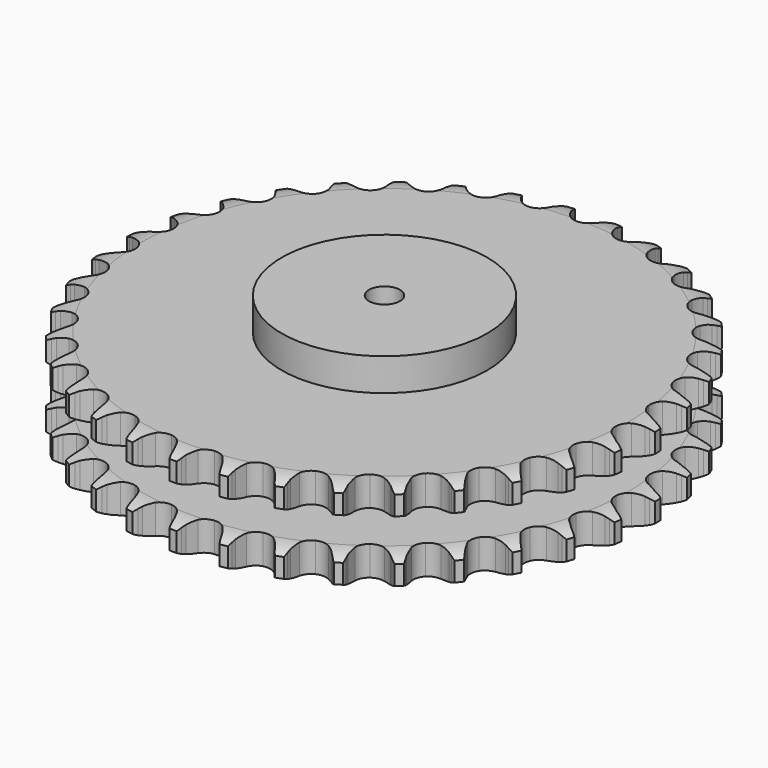
from build123d import *

# Parameters (mm, degrees)
PAD_DEPTH         = 88.4
SKETCH001_R       = 100
PAD001_DEPTH      = 120
SKETCH002_R       = 15
POCKET_DEPTH      = 0.001
POCKET_DEPTH_BACK = 120.001


with BuildPart() as part:
    # Sprocket → Pad (new body)
    with BuildSketch(Plane.XY):
        with BuildLine():
            ThreePointArc((-23.503679, 261.147267), (-20.036294, 257.089149), (-17.609149, 252.335198))
            Line((-17.609149, 252.335198), (-16.246137, 248.653319))
            ThreePointArc((-16.246137, 248.653319), (-14.09297, 243.909834), (-11.285259, 239.52195))
            ThreePointArc((-11.285259, 239.52195), (-6.312944, 235.354961), (0, 233.860151))
            ThreePointArc((0, 233.860151), (6.312944, 235.354961), (11.285259, 239.52195))
            ThreePointArc((11.285259, 239.52195), (14.09297, 243.909834), (16.246137, 248.653319))
            Line((16.246137, 248.653319), (17.609149, 252.335198))
            ThreePointArc((17.609149, 252.335198), (20.036294, 257.089149), (23.503679, 261.147267))
            ThreePointArc((23.503679, 261.147267), (26.190738, 256.535239), (27.730027, 251.424302))
            Line((27.730027, 251.424302), (28.41371, 247.558217))
            ThreePointArc((28.41371, 247.558217), (29.685292, 242.5065), (31.664395, 237.687794))
            ThreePointArc((31.664395, 237.687794), (35.812759, 232.699929), (41.757342, 230.101922))
            ThreePointArc((41.757342, 230.101922), (48.235743, 230.44549), (53.872196, 233.657673))
            Line((53.872196, 233.657673), (60.383819, 241.756498))
            ThreePointArc((60.383819, 241.756498), (61.337528, 243.473108), (62.382352, 245.135832))
            ThreePointArc((62.382352, 245.135832), (65.619343, 249.380002), (69.755611, 252.753779))
            ThreePointArc((69.755611, 252.753779), (71.575977, 247.736075), (72.177937, 242.432423))
            Line((72.177937, 242.432423), (72.160317, 238.506391))
            ThreePointArc((72.160317, 238.506391), (72.509445, 233.308807), (73.59633, 228.214158))
            ThreePointArc((73.59633, 228.214158), (76.78741, 222.565731), (82.172569, 218.948028))
            ThreePointArc((82.172569, 218.948028), (88.608206, 218.129312), (94.727636, 220.283446))
            Line((94.727636, 220.283446), (102.580716, 227.089424))
            ThreePointArc((102.580716, 227.089424), (103.825611, 228.608156), (105.150535, 230.0576))
            ThreePointArc((105.150535, 230.0576), (109.093332, 233.655577), (113.765539, 236.236577))
            ThreePointArc((113.765539, 236.236577), (114.660706, 230.97447), (114.305988, 225.648566))
            Line((114.305988, 225.648566), (113.587631, 221.788773))
            ThreePointArc((113.587631, 221.788773), (113.003084, 216.612377), (113.162818, 211.40553))
            ThreePointArc((113.162818, 211.40553), (115.29405, 205.278086), (119.946702, 200.756964))
            ThreePointArc((119.946702, 200.756964), (126.132728, 198.802278), (132.538452, 199.829127))
            Line((132.538452, 199.829127), (141.480584, 205.12351))
            ThreePointArc((141.480584, 205.12351), (142.976653, 206.39555), (144.539093, 207.585126))
            ThreePointArc((144.539093, 207.585126), (149.060971, 210.421269), (154.11895, 212.126536))
            ThreePointArc((154.11895, 212.126536), (154.060146, 206.789156), (152.760151, 201.612178))
            Line((152.760151, 201.612178), (151.364146, 197.942682))
            ThreePointArc((151.364146, 197.942682), (149.864712, 192.953847), (149.09216, 187.802155))
            ThreePointArc((149.09216, 187.802155), (150.095045, 181.392636), (153.86565, 176.113407))
            ThreePointArc((153.86565, 176.113407), (159.603241, 173.085575), (166.089373, 172.952137))
            Line((166.089373, 172.952137), (175.83315, 176.564757))
            ThreePointArc((175.83315, 176.564757), (177.532308, 177.549222), (179.282046, 178.440696))
            ThreePointArc((179.282046, 178.440696), (184.237668, 180.423848), (189.518851, 181.198574))
            ThreePointArc((189.518851, 181.198574), (188.507965, 175.957468), (186.304477, 171.095809))
            Line((186.304477, 171.095809), (184.275692, 167.73455))
            ThreePointArc((184.275692, 167.73455), (181.909564, 163.093622), (180.229557, 158.162664))
            ThreePointArc((180.229557, 158.162664), (180.071862, 151.677076), (182.839228, 145.809419))
            ThreePointArc((182.839228, 145.809419), (187.943974, 141.805759), (194.302045, 140.516322))
            Line((194.302045, 140.516322), (204.534293, 142.331067))
            ThreePointArc((204.534293, 142.331067), (206.381929, 142.996315), (208.262726, 143.561036))
            ThreePointArc((208.262726, 143.561036), (213.492815, 144.627457), (218.827459, 144.446741))
            ThreePointArc((218.827459, 144.446741), (216.896984, 139.470362), (213.860824, 135.08028))
            Line((213.860824, 135.08028), (211.264467, 132.135291))
            ThreePointArc((211.264467, 132.135291), (208.107693, 127.991434), (205.574228, 123.439695))
            ThreePointArc((205.574228, 123.439695), (204.26102, 117.086491), (205.936204, 110.818997))
            ThreePointArc((205.936204, 110.818997), (210.244033, 105.96819), (216.269689, 103.564197))
            Line((216.269689, 103.564197), (226.661537, 103.52274))
            ThreePointArc((226.661537, 103.52274), (228.598264, 103.847389), (230.549671, 104.067205))
            ThreePointArc((230.549671, 104.067205), (235.886128, 104.18262), (241.102774, 103.052271))
            ThreePointArc((241.102774, 103.052271), (238.314755, 98.500564), (234.543508, 94.72316))
            Line((234.543508, 94.72316), (231.463027, 92.289095))
            ThreePointArc((231.463027, 92.289095), (227.61707, 88.775495), (224.311574, 84.749272))
            ThreePointArc((224.311574, 84.749272), (221.885062, 78.732649), (222.41422, 72.266761))
            ThreePointArc((222.41422, 72.266761), (225.786676, 66.724716), (231.286248, 63.283434))
            Line((231.286248, 63.283434), (241.503692, 61.387107))
            ThreePointArc((241.503692, 61.387107), (243.467263, 61.360723), (245.42656, 61.228569))
            ThreePointArc((245.42656, 61.228569), (250.697866, 60.389268), (255.628846, 58.345616))
            ThreePointArc((255.628846, 58.345616), (252.072894, 54.364877), (247.687771, 51.321559))
            Line((247.687771, 51.321559), (244.222175, 49.476652))
            ThreePointArc((244.222175, 49.476652), (239.810647, 46.706239), (235.839362, 43.334939))
            ThreePointArc((235.839362, 43.334939), (232.377535, 37.848275), (231.743661, 31.391812))
            ThreePointArc((231.743661, 31.391812), (234.072349, 25.336655), (238.869076, 20.968688))
            Line((238.869076, 20.968688), (248.583719, 17.278442))
            ThreePointArc((248.583719, 17.278442), (250.511024, 16.901872), (252.415238, 16.421996))
            ThreePointArc((252.415238, 16.421996), (257.451968, 14.654955), (261.938798, 11.763685))
            ThreePointArc((261.938798, 11.763685), (257.729202, 8.481858), (252.871144, 6.270442))
            Line((252.871144, 6.270442), (249.131822, 5.073989))
            ThreePointArc((249.131822, 5.073989), (244.296512, 3.135806), (239.787078, 0.527784))
            ThreePointArc((239.787078, 0.527784), (235.401203, -4.252573), (233.624669, -10.492096))
            ThreePointArc((233.624669, -10.492096), (234.834745, -16.865748), (238.774456, -22.020007))
            Line((238.774456, -22.020007), (247.674061, -27.385567))
            ThreePointArc((247.674061, -27.385567), (249.503155, -28.100219), (251.291081, -28.912393))
            ThreePointArc((251.291081, -28.912393), (255.931352, -31.55038), (259.829821, -35.196341))
            ThreePointArc((259.829821, -35.196341), (255.101882, -37.673775), (249.927032, -38.982213))
            Line((249.927032, -38.982213), (246.034167, -39.491757))
            ThreePointArc((246.034167, -39.491757), (240.930486, -40.535414), (236.027841, -42.296334))
            ThreePointArc((236.027841, -42.296334), (230.858883, -46.21674), (227.996788, -52.038779))
            ThreePointArc((227.996788, -52.038779), (228.049358, -58.526071), (231.005428, -64.300962))
            Line((231.005428, -64.300962), (238.803956, -71.169381))
            ThreePointArc((238.803956, -71.169381), (240.476049, -72.199145), (242.090223, -73.317514))
            ThreePointArc((242.090223, -73.317514), (246.184892, -76.74166), (249.369699, -81.025127))
            ThreePointArc((249.369699, -81.025127), (244.275377, -82.618542), (238.950058, -82.981948))
            Line((238.950058, -82.981948), (235.028771, -82.788205))
            ThreePointArc((235.028771, -82.788205), (229.820757, -82.903793), (224.682474, -83.761012))
            ThreePointArc((224.682474, -83.761012), (218.896568, -86.695464), (215.040903, -91.912893))
            ThreePointArc((215.040903, -91.912893), (213.934278, -98.305318), (215.811696, -104.515231))
            Line((215.811696, -104.515231), (222.258494, -112.665752))
            ThreePointArc((222.258494, -112.665752), (223.719844, -113.977532), (225.108386, -115.36615))
            ThreePointArc((225.108386, -115.36615), (228.525847, -119.4664), (230.89463, -124.249699))
            ThreePointArc((230.89463, -124.249699), (225.597661, -124.907881), (220.293034, -124.314574))
            Line((220.293034, -124.314574), (216.469357, -123.423772))
            ThreePointArc((216.469357, -123.423772), (211.324399, -122.607575), (206.115628, -122.533543))
            ThreePointArc((206.115628, -122.533543), (199.898737, -124.387723), (195.173427, -128.832851))
            ThreePointArc((195.173427, -128.832851), (192.943173, -134.924952), (193.681598, -141.370295))
            Line((193.681598, -141.370295), (198.569462, -150.540954))
            ThreePointArc((198.569462, -150.540954), (199.7731, -152.092587), (200.89138, -153.706823))
            ThreePointArc((200.89138, -153.706823), (203.521793, -158.351391), (204.998418, -163.480783))
            ThreePointArc((204.998418, -163.480783), (199.669051, -163.182578), (194.55561, -161.651628))
            Line((194.55561, -161.651628), (190.95244, -160.092397))
            ThreePointArc((190.95244, -160.092397), (186.035901, -158.37065), (180.924056, -157.367746))
            ThreePointArc((180.924056, -157.367746), (174.475997, -158.082059), (169.032916, -161.612015))
            ThreePointArc((169.032916, -161.612015), (165.750717, -167.207986), (165.326414, -173.681601))
            Line((165.326414, -173.681601), (168.498244, -183.577645))
            ThreePointArc((168.498244, -183.577645), (169.405484, -185.319261), (170.21756, -187.107232))
            ThreePointArc((170.21756, -187.107232), (171.976382, -192.146839), (172.513388, -197.457461))
            ThreePointArc((172.513388, -197.457461), (167.322913, -196.212452), (162.565008, -193.793065))
            Line((162.565008, -193.793065), (159.298154, -191.615521))
            ThreePointArc((159.298154, -191.615521), (154.768056, -189.043561), (149.917436, -187.144019))
            ThreePointArc((149.917436, -187.144019), (143.445454, -186.695507), (137.459548, -189.196836))
            ThreePointArc((137.459548, -189.196836), (133.230896, -194.116818), (131.657503, -200.410637))
            Line((131.657503, -200.410637), (133.011353, -210.714))
            ThreePointArc((133.011353, -210.714), (133.593037, -212.589621), (134.072807, -214.493861))
            ThreePointArc((134.072807, -214.493861), (134.903508, -219.766529), (134.483636, -225.087693))
            ThreePointArc((134.483636, -225.087693), (129.598878, -222.935897), (125.349434, -219.705834))
            Line((125.349434, -219.705834), (122.523895, -216.979965))
            ThreePointArc((122.523895, -216.979965), (118.525838, -213.640457), (114.092347, -210.905329))
            ThreePointArc((114.092347, -210.905329), (107.804456, -209.308409), (101.468117, -210.700715))
            ThreePointArc((101.468117, -210.700715), (96.428924, -214.786576), (93.757012, -220.69831))
            Line((93.757012, -220.69831), (93.249368, -231.077834))
            ThreePointArc((93.249368, -231.077834), (93.486799, -233.027176), (93.618844, -234.986481))
            ThreePointArc((93.618844, -234.986481), (93.494724, -240.322742), (92.131469, -245.483422))
            ThreePointArc((92.131469, -245.483422), (87.70943, -242.493999), (84.105025, -238.557077))
            Line((84.105025, -238.557077), (81.811617, -235.370494))
            ThreePointArc((81.811617, -235.370494), (78.474103, -231.370772), (74.600235, -227.887969))
            ThreePointArc((74.600235, -227.887969), (68.698535, -225.193965), (62.215417, -225.4325))
            ThreePointArc((62.215417, -225.4325), (56.527648, -228.552917), (52.843093, -233.892559))
            Line((52.843093, -233.892559), (50.490272, -244.014636))
            ThreePointArc((50.490272, -244.014636), (50.375819, -245.975046), (50.155895, -247.926441))
            ThreePointArc((50.155895, -247.926441), (49.080943, -253.154784), (46.818121, -257.989111))
            ThreePointArc((46.818121, -257.989111), (43.000927, -254.258144), (40.157412, -249.740898))
            Line((40.157412, -249.740898), (38.469846, -246.196021))
            ThreePointArc((38.469846, -246.196021), (35.900145, -241.664641), (32.71041, -237.546102))
            ThreePointArc((32.71041, -237.546102), (27.384586, -233.841603), (20.963062, -232.918699))
            ThreePointArc((20.963062, -232.918699), (14.809526, -234.973379), (10.230754, -239.569308))
            Line((10.230754, -239.569308), (6.108377, -249.108606))
            ThreePointArc((6.108377, -249.108606), (5.645718, -251.017076), (5.080893, -252.897842))
            ThreePointArc((5.080893, -252.897842), (3.08966, -257.850223), (0, -262.202819))
            ThreePointArc((0, -262.202819), (-3.08966, -257.850223), (-5.080893, -252.897842))
            Line((-5.080893, -252.897842), (-6.108377, -249.108606))
            ThreePointArc((-6.108377, -249.108606), (-7.827673, -244.191209), (-10.230754, -239.569308))
            ThreePointArc((-10.230754, -239.569308), (-14.809526, -234.973379), (-20.963062, -232.918699))
            ThreePointArc((-20.963062, -232.918699), (-27.384586, -233.841603), (-32.71041, -237.546102))
            Line((-32.71041, -237.546102), (-38.469846, -246.196021))
            ThreePointArc((-38.469846, -246.196021), (-39.26584, -247.99121), (-40.157412, -249.740898))
            ThreePointArc((-40.157412, -249.740898), (-43.000927, -254.258144), (-46.818121, -257.989111))
            ThreePointArc((-46.818121, -257.989111), (-49.080943, -253.154784), (-50.155895, -247.926441))
            Line((-50.155895, -247.926441), (-50.490272, -244.014636))
            ThreePointArc((-50.490272, -244.014636), (-51.303903, -238.869271), (-52.843093, -233.892559))
            ThreePointArc((-52.843093, -233.892559), (-56.527648, -228.552917), (-62.215417, -225.4325))
            ThreePointArc((-62.215417, -225.4325), (-68.698535, -225.193965), (-74.600235, -227.887969))
            Line((-74.600235, -227.887969), (-81.811617, -235.370494))
            ThreePointArc((-81.811617, -235.370494), (-82.915363, -236.994703), (-84.105025, -238.557077))
            ThreePointArc((-84.105025, -238.557077), (-87.70943, -242.493999), (-92.131469, -245.483422))
            ThreePointArc((-92.131469, -245.483422), (-93.494724, -240.322742), (-93.618844, -234.986481))
            Line((-93.618844, -234.986481), (-93.249368, -231.077834))
            ThreePointArc((-93.249368, -231.077834), (-93.131183, -225.869878), (-93.757012, -220.69831))
            ThreePointArc((-93.757012, -220.69831), (-96.428924, -214.786576), (-101.468117, -210.700715))
            ThreePointArc((-101.468117, -210.700715), (-107.804456, -209.308409), (-114.092347, -210.905329))
            Line((-114.092347, -210.905329), (-122.523895, -216.979965))
            ThreePointArc((-122.523895, -216.979965), (-123.899917, -218.380991), (-125.349434, -219.705834))
            ThreePointArc((-125.349434, -219.705834), (-129.598878, -222.935897), (-134.483636, -225.087693))
            ThreePointArc((-134.483636, -225.087693), (-134.903508, -219.766529), (-134.072807, -214.493861))
            Line((-134.072807, -214.493861), (-133.011353, -210.714))
            ThreePointArc((-133.011353, -210.714), (-131.965151, -205.610841), (-131.657503, -200.410637))
            ThreePointArc((-131.657503, -200.410637), (-133.230896, -194.116818), (-137.459548, -189.196836))
            ThreePointArc((-137.459548, -189.196836), (-143.445454, -186.695507), (-149.917436, -187.144019))
            Line((-149.917436, -187.144019), (-159.298154, -191.615521))
            ThreePointArc((-159.298154, -191.615521), (-160.902226, -192.748334), (-162.565008, -193.793065))
            ThreePointArc((-162.565008, -193.793065), (-167.322913, -196.212452), (-172.513388, -197.457461))
            ThreePointArc((-172.513388, -197.457461), (-171.976382, -192.146839), (-170.21756, -187.107232))
            Line((-170.21756, -187.107232), (-168.498244, -183.577645))
            ThreePointArc((-168.498244, -183.577645), (-166.55765, -178.743303), (-165.326414, -173.681601))
            ThreePointArc((-165.326414, -173.681601), (-165.750717, -167.207986), (-169.032916, -161.612015))
            ThreePointArc((-169.032916, -161.612015), (-174.475997, -158.082059), (-180.924056, -157.367746))
            Line((-180.924056, -157.367746), (-190.95244, -160.092397))
            ThreePointArc((-190.95244, -160.092397), (-192.733005, -160.920587), (-194.55561, -161.651628))
            ThreePointArc((-194.55561, -161.651628), (-199.669051, -163.182578), (-204.998418, -163.480783))
            ThreePointArc((-204.998418, -163.480783), (-203.521793, -158.351391), (-200.89138, -153.706823))
            Line((-200.89138, -153.706823), (-198.569462, -150.540954))
            ThreePointArc((-198.569462, -150.540954), (-195.796849, -146.130808), (-193.681598, -141.370295))
            ThreePointArc((-193.681598, -141.370295), (-192.943173, -134.924952), (-195.173427, -128.832851))
            ThreePointArc((-195.173427, -128.832851), (-199.898737, -124.387723), (-206.115628, -122.533543))
            Line((-206.115628, -122.533543), (-216.469357, -123.423772))
            ThreePointArc((-216.469357, -123.423772), (-218.369186, -123.92072), (-220.293034, -124.314574))
            ThreePointArc((-220.293034, -124.314574), (-225.597661, -124.907881), (-230.89463, -124.249699))
            ThreePointArc((-230.89463, -124.249699), (-228.525847, -119.4664), (-225.108386, -115.36615))
            Line((-225.108386, -115.36615), (-222.258494, -112.665752))
            ThreePointArc((-222.258494, -112.665752), (-218.742976, -108.821548), (-215.811696, -104.515231))
            ThreePointArc((-215.811696, -104.515231), (-213.934278, -98.305318), (-215.040903, -91.912893))
            ThreePointArc((-215.040903, -91.912893), (-218.896568, -86.695464), (-224.682474, -83.761012))
            Line((-224.682474, -83.761012), (-235.028771, -82.788205))
            ThreePointArc((-235.028771, -82.788205), (-236.986803, -82.93794), (-238.950058, -82.981948))
            ThreePointArc((-238.950058, -82.981948), (-244.275377, -82.618542), (-249.369699, -81.025127))
            ThreePointArc((-249.369699, -81.025127), (-246.184892, -76.74166), (-242.090223, -73.317514))
            Line((-242.090223, -73.317514), (-238.803956, -71.169381))
            ThreePointArc((-238.803956, -71.169381), (-234.658525, -68.014674), (-231.005428, -64.300962))
            ThreePointArc((-231.005428, -64.300962), (-228.049358, -58.526071), (-227.996788, -52.038779))
            ThreePointArc((-227.996788, -52.038779), (-230.858883, -46.21674), (-236.027841, -42.296334))
            Line((-236.027841, -42.296334), (-246.034167, -39.491757))
            ThreePointArc((-246.034167, -39.491757), (-247.987468, -39.289465), (-249.927032, -38.982213))
            ThreePointArc((-249.927032, -38.982213), (-255.101882, -37.673775), (-259.829821, -35.196341))
            ThreePointArc((-259.829821, -35.196341), (-255.931352, -31.55038), (-251.291081, -28.912393))
            Line((-251.291081, -28.912393), (-247.674061, -27.385567))
            ThreePointArc((-247.674061, -27.385567), (-243.031955, -25.021753), (-238.774456, -22.020007))
            ThreePointArc((-238.774456, -22.020007), (-234.834745, -16.865748), (-233.624669, -10.492096))
            ThreePointArc((-233.624669, -10.492096), (-235.401203, -4.252573), (-239.787078, 0.527784))
            Line((-239.787078, 0.527784), (-249.131822, 5.073989))
            ThreePointArc((-249.131822, 5.073989), (-251.017613, 5.621805), (-252.871144, 6.270442))
            ThreePointArc((-252.871144, 6.270442), (-257.729202, 8.481858), (-261.938798, 11.763685))
            ThreePointArc((-261.938798, 11.763685), (-257.451968, 14.654955), (-252.415238, 16.421996))
            Line((-252.415238, 16.421996), (-248.583719, 17.278442))
            ThreePointArc((-248.583719, 17.278442), (-243.594138, 18.775388), (-238.869076, 20.968688))
            ThreePointArc((-238.869076, 20.968688), (-234.072349, 25.336655), (-231.743661, 31.391812))
            ThreePointArc((-231.743661, 31.391812), (-232.377535, 37.848275), (-235.839362, 43.334939))
            Line((-235.839362, 43.334939), (-244.222175, 49.476652))
            ThreePointArc((-244.222175, 49.476652), (-245.979844, 50.352386), (-247.687771, 51.321559))
            ThreePointArc((-247.687771, 51.321559), (-252.072894, 54.364877), (-255.628846, 58.345616))
            ThreePointArc((-255.628846, 58.345616), (-250.697866, 60.389268), (-245.42656, 61.228569))
            Line((-245.42656, 61.228569), (-241.503692, 61.387107))
            ThreePointArc((-241.503692, 61.387107), (-236.327005, 61.969073), (-231.286248, 63.283434))
            ThreePointArc((-231.286248, 63.283434), (-225.786676, 66.724716), (-222.41422, 72.266761))
            ThreePointArc((-222.41422, 72.266761), (-221.885062, 78.732649), (-224.311574, 84.749272))
            Line((-224.311574, 84.749272), (-231.463027, 92.289095))
            ThreePointArc((-231.463027, 92.289095), (-233.036081, 93.464599), (-234.543508, 94.72316))
            ThreePointArc((-234.543508, 94.72316), (-238.314755, 98.500564), (-241.102774, 103.052271))
            ThreePointArc((-241.102774, 103.052271), (-235.886128, 104.18262), (-230.549671, 104.067205))
            Line((-230.549671, 104.067205), (-226.661537, 103.52274))
            ThreePointArc((-226.661537, 103.52274), (-221.464127, 103.17102), (-216.269689, 103.564197))
            ThreePointArc((-216.269689, 103.564197), (-210.244033, 105.96819), (-205.936204, 110.818997))
            ThreePointArc((-205.936204, 110.818997), (-204.26102, 117.086491), (-205.574228, 123.439695))
            Line((-205.574228, 123.439695), (-211.264467, 132.135291))
            ThreePointArc((-211.264467, 132.135291), (-212.602347, 133.572784), (-213.860824, 135.08028))
            ThreePointArc((-213.860824, 135.08028), (-216.896984, 139.470362), (-218.827459, 144.446741))
            ThreePointArc((-218.827459, 144.446741), (-213.492815, 144.627457), (-208.262726, 143.561036))
            Line((-208.262726, 143.561036), (-204.534293, 142.331067))
            ThreePointArc((-204.534293, 142.331067), (-199.483211, 141.056966), (-194.302045, 140.516322))
            ThreePointArc((-194.302045, 140.516322), (-187.943974, 141.805759), (-182.839228, 145.809419))
            ThreePointArc((-182.839228, 145.809419), (-180.071862, 151.677076), (-180.229557, 158.162664))
            Line((-180.229557, 158.162664), (-184.275692, 167.73455))
            ThreePointArc((-184.275692, 167.73455), (-185.335398, 169.387829), (-186.304477, 171.095809))
            ThreePointArc((-186.304477, 171.095809), (-188.507965, 175.957468), (-189.518851, 181.198574))
            ThreePointArc((-189.518851, 181.198574), (-184.237668, 180.423848), (-179.282046, 178.440696))
            Line((-179.282046, 178.440696), (-175.83315, 176.564757))
            ThreePointArc((-175.83315, 176.564757), (-171.090739, 174.409226), (-166.089373, 172.952137))
            ThreePointArc((-166.089373, 172.952137), (-159.603241, 173.085575), (-153.86565, 176.113407))
            ThreePointArc((-153.86565, 176.113407), (-150.095045, 181.392636), (-149.09216, 187.802155))
            Line((-149.09216, 187.802155), (-151.364146, 197.942682))
            ThreePointArc((-151.364146, 197.942682), (-152.111617, 199.75861), (-152.760151, 201.612178))
            ThreePointArc((-152.760151, 201.612178), (-154.060146, 206.789156), (-154.11895, 212.126536))
            ThreePointArc((-154.11895, 212.126536), (-149.060971, 210.421269), (-144.539093, 207.585126))
            Line((-144.539093, 207.585126), (-141.480584, 205.12351))
            ThreePointArc((-141.480584, 205.12351), (-137.199271, 202.155829), (-132.538452, 199.829127))
            ThreePointArc((-132.538452, 199.829127), (-126.132728, 198.802278), (-119.946702, 200.756964))
            ThreePointArc((-119.946702, 200.756964), (-115.29405, 205.278086), (-113.162818, 211.40553))
            Line((-113.162818, 211.40553), (-113.587631, 221.788773))
            ThreePointArc((-113.587631, 221.788773), (-113.998844, 223.708985), (-114.305988, 225.648566))
            ThreePointArc((-114.305988, 225.648566), (-114.660706, 230.97447), (-113.765539, 236.236577))
            ThreePointArc((-113.765539, 236.236577), (-109.093332, 233.655577), (-105.150535, 230.0576))
            Line((-105.150535, 230.0576), (-102.580716, 227.089424))
            ThreePointArc((-102.580716, 227.089424), (-98.898105, 223.404977), (-94.727636, 220.283446))
            ThreePointArc((-94.727636, 220.283446), (-88.608206, 218.129312), (-82.172569, 218.948028))
            ThreePointArc((-82.172569, 218.948028), (-76.78741, 222.565731), (-73.59633, 228.214158))
            Line((-73.59633, 228.214158), (-72.160317, 238.506391))
            ThreePointArc((-72.160317, 238.506391), (-72.222054, 240.469169), (-72.177937, 242.432423))
            ThreePointArc((-72.177937, 242.432423), (-71.575977, 247.736075), (-69.755611, 252.753779))
            ThreePointArc((-69.755611, 252.753779), (-65.619343, 249.380002), (-62.382352, 245.135832))
            Line((-62.382352, 245.135832), (-60.383819, 241.756498))
            ThreePointArc((-60.383819, 241.756498), (-57.418273, 237.473706), (-53.872196, 233.657673))
            ThreePointArc((-53.872196, 233.657673), (-48.235743, 230.44549), (-41.757342, 230.101922))
            ThreePointArc((-41.757342, 230.101922), (-35.812759, 232.699929), (-31.664395, 237.687794))
            Line((-31.664395, 237.687794), (-28.41371, 247.558217))
            ThreePointArc((-28.41371, 247.558217), (-28.123988, 249.500477), (-27.730027, 251.424302))
            ThreePointArc((-27.730027, 251.424302), (-26.190738, 256.535239), (-23.503679, 261.147267))
        make_face()
    extrude(amount=PAD_DEPTH)

    # Sketch → Groove (revolve, cut)
    with BuildSketch(Plane.XZ):
        with BuildLine():
            ThreePointArc((236.628451, 0), (247.11654, 1.268279), (257, 5))
            Line((257, 5), (257, 23.8))
            ThreePointArc((257, 23.8), (247.11654, 27.531721), (236.628451, 28.8))
            Line((100, 28.8), (236.628451, 28.8))
            Line((100, 59.6), (100, 28.8))
            Line((236.628451, 59.6), (100, 59.6))
            ThreePointArc((236.628451, 59.6), (247.11654, 60.868279), (257, 64.6))
            Line((257, 64.6), (257, 83.4))
            ThreePointArc((257, 83.4), (247.11654, 87.131721), (236.628451, 88.4))
            Line((236.628451, 88.4), (267, 88.4))
            Line((267, 88.4), (267, 0))
            Line((236.628451, 0), (267, 0))
        make_face()
    revolve(axis=Axis((0, 0, 0), (0, 0, 1)), mode=Mode.SUBTRACT)

    # Sketch001 → Pad001 (join)
    with BuildSketch(Plane.XY):
        Circle(SKETCH001_R)
    extrude(amount=PAD001_DEPTH)

    # Sketch002 → Pocket (cut, two sides)
    with BuildSketch(Plane.XY) as pocket_sk:
        Circle(SKETCH002_R)
    extrude(amount=-POCKET_DEPTH, mode=Mode.SUBTRACT)
    extrude(pocket_sk.sketch, amount=POCKET_DEPTH_BACK, mode=Mode.SUBTRACT)


solid = part.part
